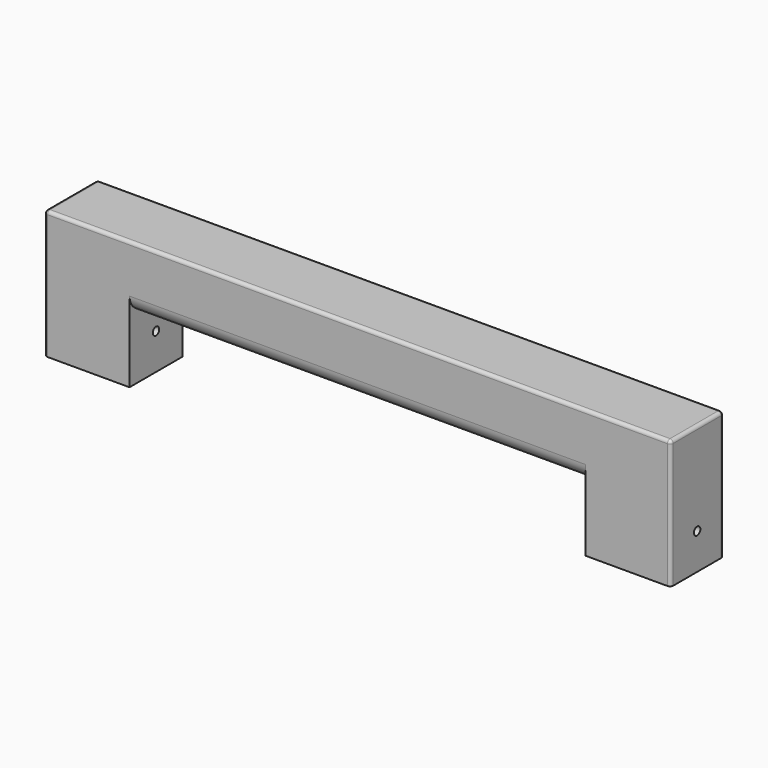
from build123d import *

# Parameters (mm, degrees)
F0_W     = 26.5
F0_H     = 20.6
F0_W_2   = 18.5
F0_H_2   = 12.6
F1_DEPTH = 20
F2_W     = 195
F2_H     = 20.6
F3_DEPTH = 20
F4_R     = 1
F5_R     = 1.25
F6_DEPTH = 2000
F7_R     = 1.25
F8_DEPTH = 100
F9_R     = 5


with BuildPart() as f1:
    # F0 (on Top) → F1 (new body)
    with BuildSketch(Plane.XY):
        with Locations((-84.25, 0)):
            Rectangle(F0_W, F0_H)
        with Locations((-84.25, 0)):
            Rectangle(F0_W_2, F0_H_2, mode=Mode.SUBTRACT)
    extrude(amount=F1_DEPTH)



with BuildPart() as f1b:
    # F0 (on Top) → F1, piece 2 (new body)
    with BuildSketch(Plane.XY):
        with Locations((84.25, 0)):
            Rectangle(F0_W, F0_H)
        with Locations((84.25, 0)):
            Rectangle(F0_W_2, F0_H_2, mode=Mode.SUBTRACT)
    extrude(amount=F1_DEPTH)


with BuildPart() as f1_1:
    add(f1.part)

    add(f1b.part)  # F3 merges F1b
    # F2 (on face) → F3 (join)
    with BuildSketch(Plane.XY.offset(20)):
        Rectangle(F2_W, F2_H)
    extrude(amount=F3_DEPTH)

    # F4
    f4_edges = [f1_1.edges().sort_by_distance(p)[0] for p in [
        (-97.5, 0, 40),
        (0, -10.3, 40),
        (97.5, 0, 40),
        (0, 10.3, 40),
        (-97.5, -10.3, 20),
        (97.5, -10.3, 20),
        (97.5, 10.3, 20),
        (-97.5, 10.3, 20),
    ]]
    fillet(f4_edges, radius=F4_R)

    # F5 (on face) → F6 (cut)
    with BuildSketch(Plane(origin=(-97.5, 0, 0), x_dir=(0, -1, 0), z_dir=(-1, 0, 0))):
        with Locations((0, 11.2)):
            Circle(F5_R)
    extrude(amount=-F6_DEPTH, mode=Mode.SUBTRACT)

    # F7 (on face) → F8 (cut)
    with BuildSketch(Plane.YZ.offset(97.5)):
        with Locations((0, 11.2)):
            Circle(F7_R)
    extrude(amount=-F8_DEPTH, mode=Mode.SUBTRACT)

    # F9
    f9_edges = [f1_1.edges().sort_by_distance(p)[0] for p in [
        (0, 10.3, 20),
        (0, -10.3, 20),
    ]]
    fillet(f9_edges, radius=F9_R)


solid = f1_1.part
